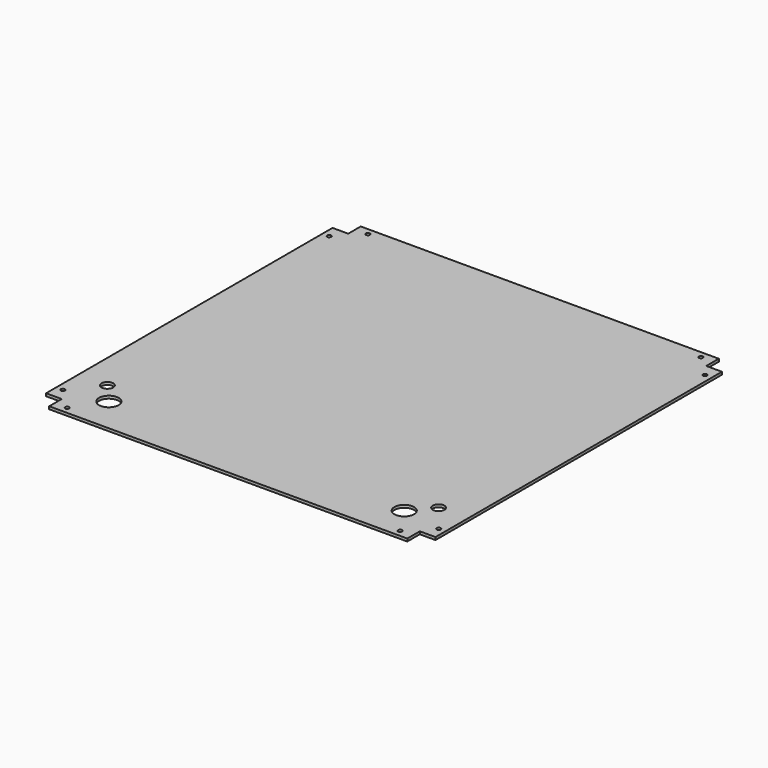
from build123d import *

# Parameters (mm, degrees)
SKETCH002_W   = 435
SKETCH002_H   = 435
PAD_DEPTH     = 3
SKETCH001_R   = 2.25
SKETCH001_R_2 = 6.5
SKETCH001_R_3 = 11
SKETCH001_W   = 20
SKETCH001_H   = 20
POCKET_DEPTH  = 5


with BuildPart() as part:
    # Sketch002 → Pad (new body)
    with BuildSketch(Plane.XY):
        with Locations((217.5, 217.5)):
            Rectangle(SKETCH002_W, SKETCH002_H)
    extrude(amount=PAD_DEPTH)

    # Sketch001 → Pocket (cut)
    with BuildSketch(Plane.XY.offset(3)):
        with Locations((7.5, 31.5)):
            Circle(SKETCH001_R)
        with Locations((31.5, 7.5)):
            Circle(SKETCH001_R)
        with Locations((7.5, 403.5)):
            Circle(SKETCH001_R)
        with Locations((31.5, 427.5)):
            Circle(SKETCH001_R)
        with Locations((403.5, 427.5)):
            Circle(SKETCH001_R)
        with Locations((427.5, 403.5)):
            Circle(SKETCH001_R)
        with Locations((403.5, 7.5)):
            Circle(SKETCH001_R)
        with Locations((427.5, 31.5)):
            Circle(SKETCH001_R)
        with Locations((32.5, 62.5)):
            Circle(SKETCH001_R_2)
        with Locations((52.5, 39.5)):
            Circle(SKETCH001_R_3)
        with Locations((402.5, 62.5)):
            Circle(SKETCH001_R_2)
        with Locations((382.5, 39.5)):
            Circle(SKETCH001_R_3)
        with Locations((7.5, 7.5)):
            Rectangle(SKETCH001_W, SKETCH001_H)
        with Locations((427.5, 7.5)):
            Rectangle(SKETCH001_W, SKETCH001_H)
        with Locations((7.5, 427.5)):
            Rectangle(SKETCH001_W, SKETCH001_H)
        with Locations((427.5, 427.5)):
            Rectangle(SKETCH001_W, SKETCH001_H)
    extrude(amount=-POCKET_DEPTH, mode=Mode.SUBTRACT)


solid = part.part
